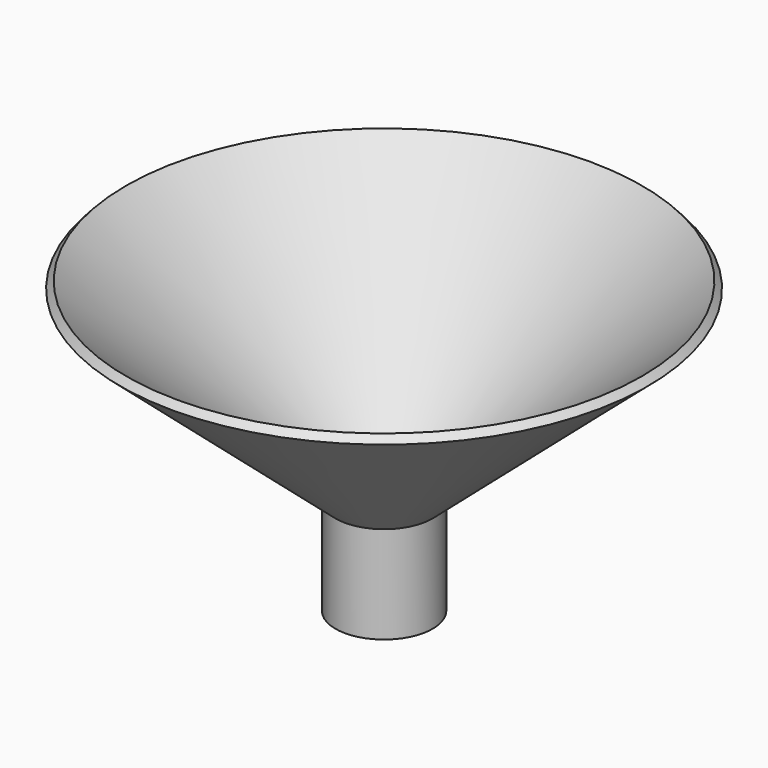
from build123d import *

# Parameters (mm, degrees)
F3_R     = 11.001579
F4_DEPTH = 25.4


with BuildPart() as f1:
    # F0 (on Right) → F1 (revolve)
    with BuildSketch(Plane.YZ):
        Polygon((-56.302847, 48.771877), (0, 0), (0, -25.4), (12.7, -25.4), (12.7, 0), (2.291456, 0), (-54.740725, 50.534844), align=None)
    revolve(axis=Axis((0, 12.7, -12.7), (0, 0, 1)))

    # F3 (on face) → F4 (cut)
    with BuildSketch(Plane(origin=(0, 0, -25.4), x_dir=(1, 0, 0), z_dir=(0, 0, -1))):
        with Locations((0, -12.841756)):
            Circle(F3_R)
    extrude(amount=-F4_DEPTH, mode=Mode.SUBTRACT)


solid = f1.part
